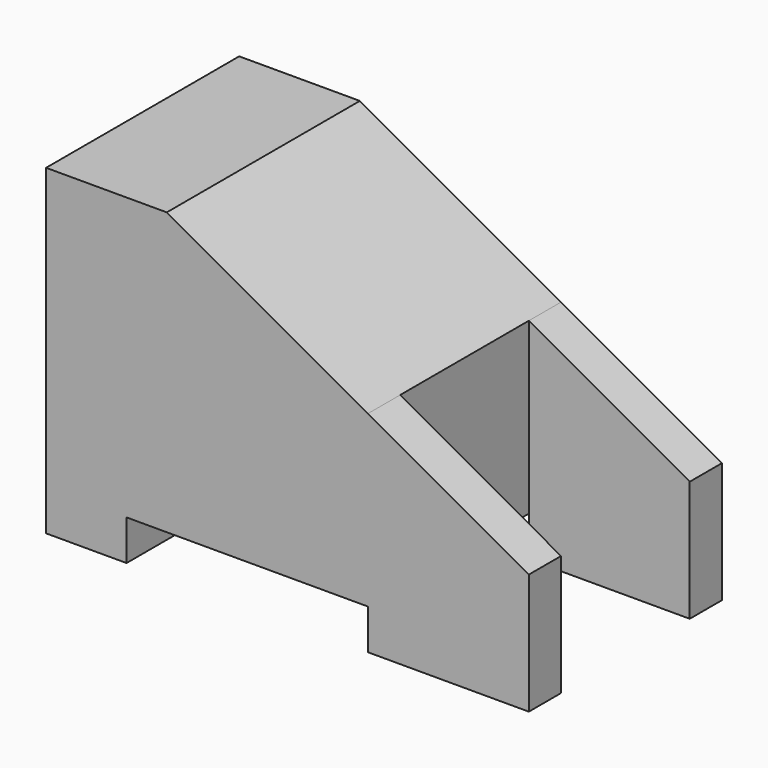
from build123d import *

# Parameters (mm, degrees)
F1_DEPTH = 7.5
F2_W     = 15
F2_H     = 2.5
F3_DEPTH = 15.001
F4_DEPTH = 5


with BuildPart() as f1:
    # F0 (on Front) → F1 (new body, symmetric)
    with BuildSketch(Plane.XZ):
        Polygon((0, 20), (0, 0), (20, 0), (20, 13.0555555556), (7.5, 20), align=None)
        Polygon((20, 13.0555555556), (20, 0), (30, 0), (30, 7.5), align=None)
    extrude(amount=F1_DEPTH, both=True)

    # F2 (on face) → F3 (cut, through all)
    with BuildSketch(Plane.XZ.offset(7.5)):
        with Locations((12.5, 1.25)):
            Rectangle(F2_W, F2_H)
    extrude(amount=-F3_DEPTH, mode=Mode.SUBTRACT)

    # F0 (on Front) → F4 (cut, symmetric)
    with BuildSketch(Plane.XZ):
        Polygon((20, 13.0555555556), (20, 0), (30, 0), (30, 7.5), align=None)
    extrude(amount=F4_DEPTH, both=True, mode=Mode.SUBTRACT)


solid = f1.part
